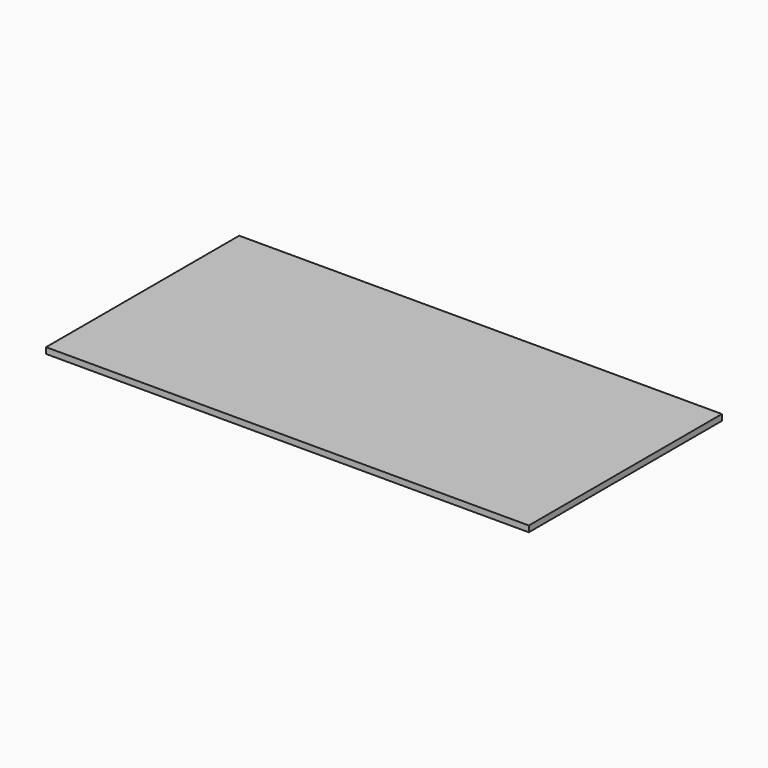
from build123d import *

# Parameters (mm, degrees)
F0_W     = 2000
F0_H     = 1000
F0_W_2   = 100
F0_H_2   = 100
F1_DEPTH = 25


with BuildPart() as f1:
    # F0 (on Top) → F1 (new body)
    with BuildSketch(Plane.XY):
        with Locations((-6.7666675895, 81.7801266813)):
            Rectangle(F0_W, F0_H)
        with Locations((-906.7666675895, -318.2198733187)):
            Rectangle(F0_W_2, F0_H_2, mode=Mode.SUBTRACT)
        with Locations((893.2333324105, -318.2198733187)):
            Rectangle(F0_W_2, F0_H_2, mode=Mode.SUBTRACT)
        with Locations((-906.7666675895, 481.7801266813)):
            Rectangle(F0_W_2, F0_H_2, mode=Mode.SUBTRACT)
        with Locations((893.2333324105, 481.7801266813)):
            Rectangle(F0_W_2, F0_H_2, mode=Mode.SUBTRACT)
        with Locations((-906.7666675895, 481.7801266813)):
            Rectangle(F0_W_2, F0_H_2)
        with Locations((893.2333324105, 481.7801266813)):
            Rectangle(F0_W_2, F0_H_2)
        with Locations((893.2333324105, -318.2198733187)):
            Rectangle(F0_W_2, F0_H_2)
        with Locations((-906.7666675895, -318.2198733187)):
            Rectangle(F0_W_2, F0_H_2)
    extrude(amount=F1_DEPTH)


solid = f1.part
